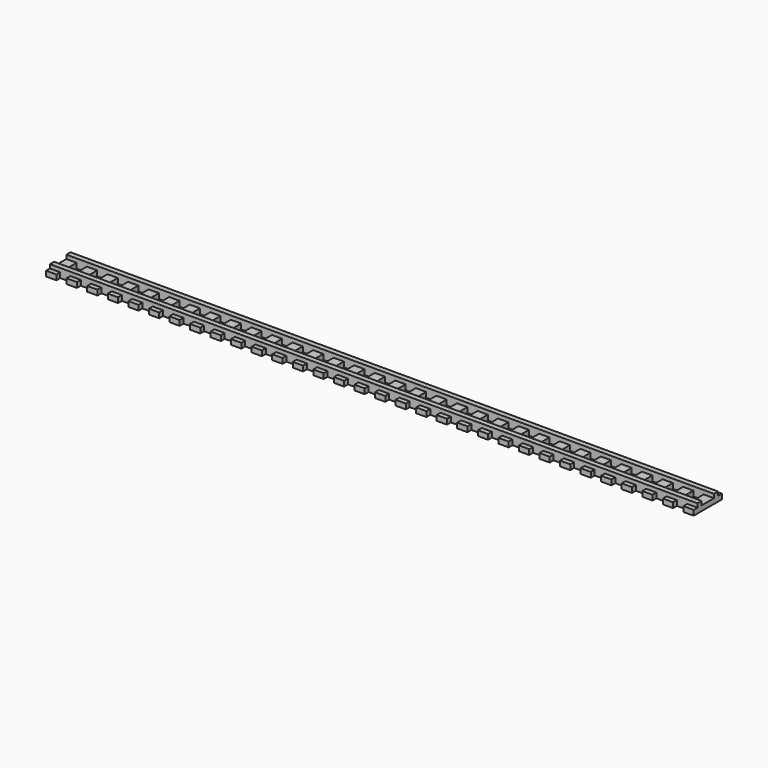
from build123d import *

# Parameters (mm, degrees)
F0_W     = 100.8
F0_H     = 0.8
F2_DEPTH = 1.4
F1_W     = 1.6
F1_H     = 5.5
F3_DEPTH = 0.8
F4_DEPTH = 1.4


with BuildPart() as f2:
    # F0 (on Top) → F2 (new body)
    with BuildSketch(Plane.XY):
        Rectangle(F0_W, F0_H)
    extrude(amount=F2_DEPTH)

    # F1 (on Top) → F3 (join)
    with BuildSketch(Plane.XY):
        with Locations((-17.6, 1.6)):
            Rectangle(F1_W, F1_H)
        with Locations((-30.4, 1.6)):
            Rectangle(F1_W, F1_H)
        with Locations((14.4, 1.6)):
            Rectangle(F1_W, F1_H)
        with Locations((33.6, 1.6)):
            Rectangle(F1_W, F1_H)
        with Locations((36.8, 1.6)):
            Rectangle(F1_W, F1_H)
        with Locations((-20.8, 1.6)):
            Rectangle(F1_W, F1_H)
        with Locations((-40, 1.6)):
            Rectangle(F1_W, F1_H)
        with Locations((17.6, 1.6)):
            Rectangle(F1_W, F1_H)
        with Locations((46.4, 1.6)):
            Rectangle(F1_W, F1_H)
        with Locations((27.2, 1.6)):
            Rectangle(F1_W, F1_H)
        with Locations((-36.8, 1.6)):
            Rectangle(F1_W, F1_H)
        with Locations((49.6, 1.6)):
            Rectangle(F1_W, F1_H)
        with Locations((43.2, 1.6)):
            Rectangle(F1_W, F1_H)
        with Locations((-24, 1.6)):
            Rectangle(F1_W, F1_H)
        with Locations((8, 1.6)):
            Rectangle(F1_W, F1_H)
        with Locations((-14.4, 1.6)):
            Rectangle(F1_W, F1_H)
        with Locations((-46.4, 1.6)):
            Rectangle(F1_W, F1_H)
        with Locations((-43.2, 1.6)):
            Rectangle(F1_W, F1_H)
        with Locations((-4.8, 1.6)):
            Rectangle(F1_W, F1_H)
        with Locations((11.2, 1.6)):
            Rectangle(F1_W, F1_H)
        with Locations((-27.2, 1.6)):
            Rectangle(F1_W, F1_H)
        with Locations((-33.6, 1.6)):
            Rectangle(F1_W, F1_H)
        with Locations((40, 1.6)):
            Rectangle(F1_W, F1_H)
        with Locations((-8, 1.6)):
            Rectangle(F1_W, F1_H)
        with Locations((30.4, 1.6)):
            Rectangle(F1_W, F1_H)
        with Locations((20.8, 1.6)):
            Rectangle(F1_W, F1_H)
        with Locations((4.8, 1.6)):
            Rectangle(F1_W, F1_H)
        with Locations((-1.6, 1.6)):
            Rectangle(F1_W, F1_H)
        with Locations((-49.6, 1.6)):
            Rectangle(F1_W, F1_H)
        with Locations((24, 1.6)):
            Rectangle(F1_W, F1_H)
        with Locations((-11.2, 1.6)):
            Rectangle(F1_W, F1_H)
        with Locations((1.6, 1.6)):
            Rectangle(F1_W, F1_H)
    extrude(amount=F3_DEPTH)

    # F0 (on Top) → F4 (join)
    with BuildSketch(Plane.XY):
        with Locations((0, 3.2)):
            Rectangle(F0_W, F0_H)
    extrude(amount=F4_DEPTH)


solid = f2.part
